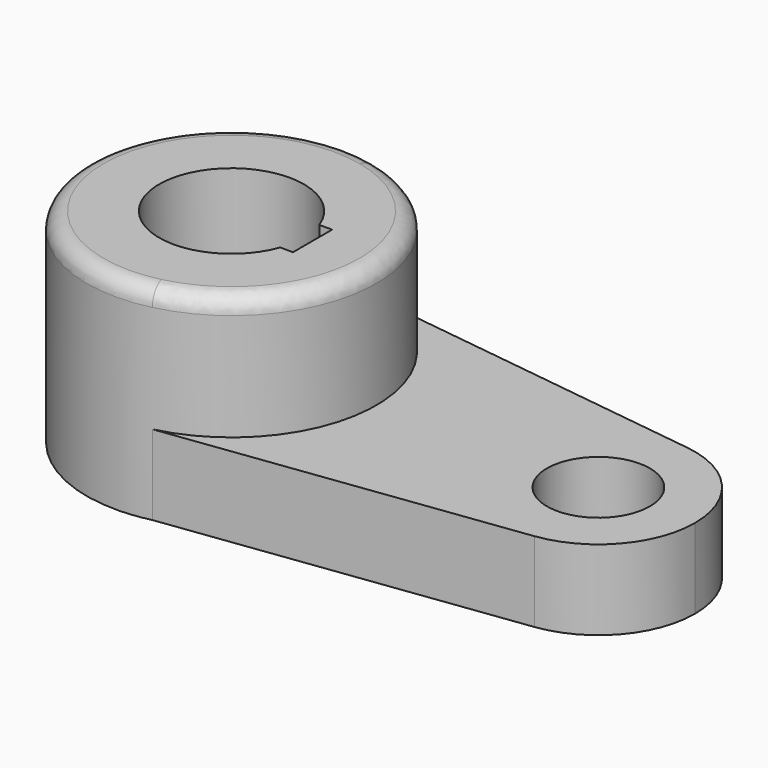
from build123d import *

# Parameters (mm, degrees)
F1_DEPTH = 15.7734
F3_DEPTH = 40.2336
F4_R     = 3.302
F5_R     = 10.16
F6_DEPTH = 40.2346
F8_DEPTH = 40.2346


with BuildPart() as f1:
    # F0 (on Top) → F1 (new body)
    with BuildSketch(Plane.XY):
        with BuildLine():
            ThreePointArc((43.9952853306, -18.8896787473), (55.8448206349, -12.5682112257), (60.5790053739, 0))
            ThreePointArc((60.5790053739, 0), (55.8467902665, 12.565967363), (44.001206343, 18.8889047424))
            ThreePointArc((44.001206343, 18.8889047424), (22.4790056079, 0.0029856939), (43.9952853306, -18.8896787473))
        make_face()
        with BuildLine():
            ThreePointArc((43.9952853306, -18.8896787473), (22.4790056079, 0.0029856939), (44.001206343, 18.8889047424))
            Line((44.001206343, 18.8889047424), (-24.4634996727, 27.8496420043))
            ThreePointArc((-24.4634996727, 27.8496420043), (-8.5077123635, 17.8005889057), (-2.2860042823, 0))
            ThreePointArc((-2.2860042823, 0), (-8.4401964439, -17.7154734872), (-24.2519186042, -27.8001908536))
            Line((-24.2519186042, -27.8001908536), (43.9952853306, -18.8896787473))
        make_face()
        with BuildLine():
            Line((-29.8758121402, 28.5580115107), (-24.4634996727, 27.8496420043))
            ThreePointArc((-24.4634996727, 27.8496420043), (-27.1527028286, 28.3333571136), (-29.8758121402, 28.5580115107))
        make_face()
        with BuildLine():
            ThreePointArc((-2.2860042823, 0), (-8.5077123635, 17.8005889057), (-24.4634996727, 27.8496420043))
            Line((-24.4634996727, 27.8496420043), (-29.8758121402, 28.5580115107))
            ThreePointArc((-29.8758121402, 28.5580115107), (-59.4357622966, 0.1175985837), (-30.110900859, -28.565153069))
            Line((-30.110900859, -28.565153069), (-24.2519186042, -27.8001908536))
            ThreePointArc((-24.2519186042, -27.8001908536), (-8.4401964439, -17.7154734872), (-2.2860042823, 0))
        make_face()
        with BuildLine():
            ThreePointArc((-30.110900859, -28.565153069), (-27.1615843473, -28.3345181209), (-24.2519186042, -27.8001908536))
            Line((-24.2519186042, -27.8001908536), (-30.110900859, -28.565153069))
        make_face()
    extrude(amount=F1_DEPTH)

    # F2 (on Top) → F3 (join)
    with BuildSketch(Plane.XY):
        with BuildLine():
            ThreePointArc((-2.2860042823, 0), (-8.5077123635, 17.8005889057), (-24.4634996727, 27.8496420043))
            ThreePointArc((-24.4634996727, 27.8496420043), (-59.435797755, -0.1086415722), (-24.2519186042, -27.8001908536))
            ThreePointArc((-24.2519186042, -27.8001908536), (-8.4401964439, -17.7154734872), (-2.2860042823, 0))
        make_face()
    extrude(amount=F3_DEPTH)

    # F4
    f4_edges = [f1.edges().sort_by_distance(p)[0] for p in [
        (-37.47009, 27.800191, 40.2336),
    ]]
    fillet(f4_edges, radius=F4_R)

    # F5 (on Top) → F6 (cut, through all)
    with BuildSketch(Plane.XY):
        with Locations((41.5290053739, 0)):
            Circle(F5_R)
    extrude(amount=F6_DEPTH, mode=Mode.SUBTRACT)

    # F7 (on face) → F8 (cut, through all)
    with BuildSketch(Plane.XY.offset(40.2336)):
        with BuildLine():
            ThreePointArc((-17.413239403, -4.826), (-16.7850034837, -2.4492565746), (-16.5735042823, 0))
            ThreePointArc((-16.5735042823, 0), (-16.7850034837, 2.4492565746), (-17.413239403, 4.826))
            ThreePointArc((-17.413239403, 4.826), (-45.1485042823, 0), (-17.413239403, -4.826))
        make_face()
        with BuildLine():
            ThreePointArc((-17.413239403, 4.826), (-16.7850034837, 2.4492565746), (-16.5735042823, 0))
            ThreePointArc((-16.5735042823, 0), (-16.7850034837, -2.4492565746), (-17.413239403, -4.826))
            Line((-17.413239403, -4.826), (-14.8717042823, -4.826))
            Line((-14.8717042823, -4.826), (-14.8717042823, 4.826))
            Line((-14.8717042823, 4.826), (-17.413239403, 4.826))
        make_face()
    extrude(amount=-F8_DEPTH, mode=Mode.SUBTRACT)


solid = f1.part
